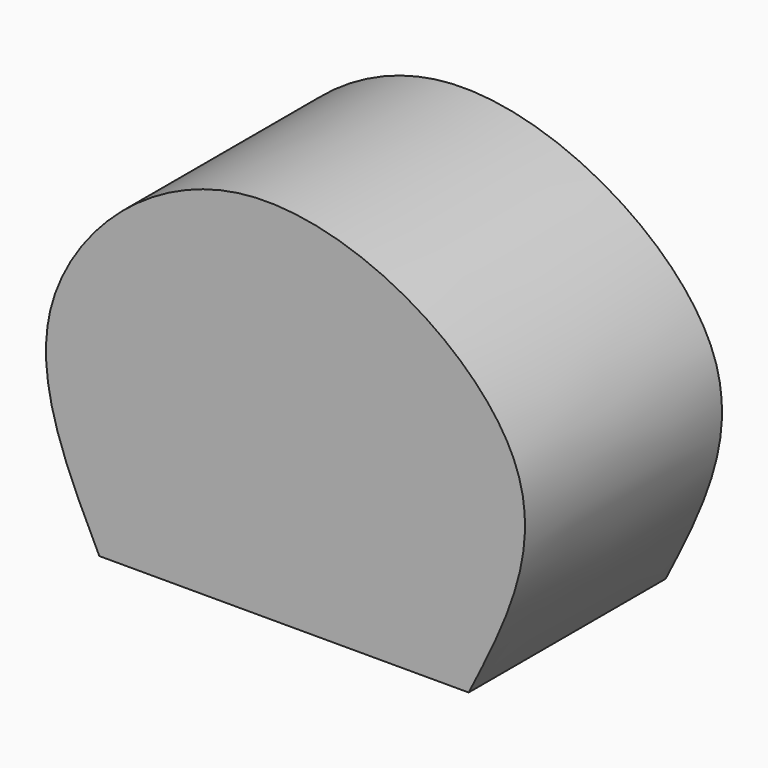
from build123d import *

# Parameters (mm, degrees)
F1_DEPTH = 25.4


with BuildPart() as f1:
    # F0 (on Front) → F1 (new body)
    with BuildSketch(Plane.XZ):
        with BuildLine():
            add(Edge.make_bspline(
                [(-21.5323232743, -5.4616359314), (-24.9322199416, 1.4283513153), (-32.1107017955, 15.9757488584), (-7.0144555026, 40.3037122551), (28.8440594019, 18.8332801964), (20.4450415313, 2.2116547464), (16.5676767257, -5.4616359314)],
                knots=[0, 0, 0, 0, 0.2296327822, 0.484842606, 0.7621801525, 1, 1, 1, 1], degree=3))
            Line((-21.5323232743, -5.4616359314), (16.5676767257, -5.4616359314))
        make_face()
    extrude(amount=F1_DEPTH)


solid = f1.part
